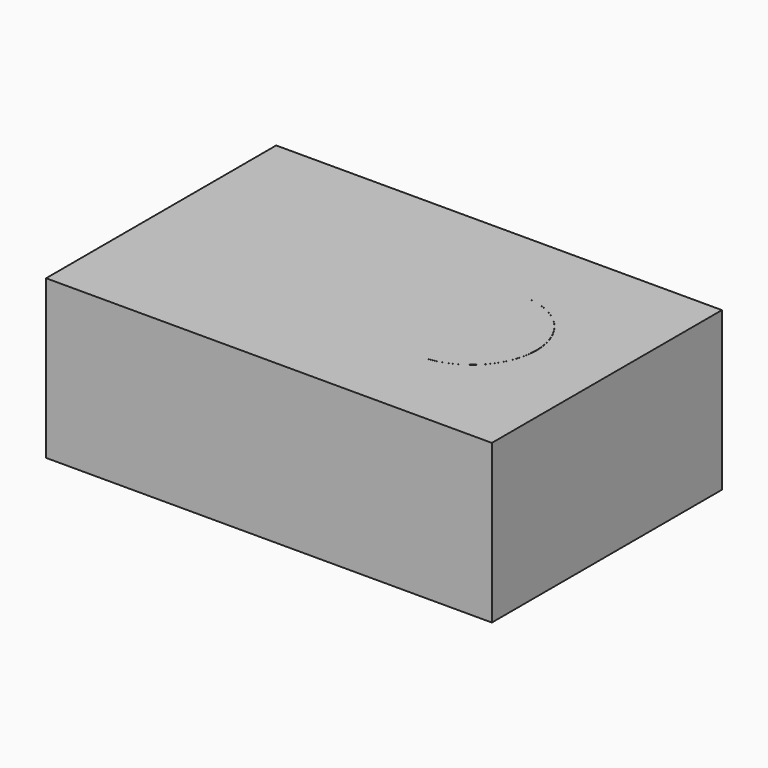
from build123d import *

# Parameters (mm, degrees)
SKETCH001_R  = 0.45
PAD001_DEPTH = 0.1
SKETCH_W     = 3.1
SKETCH_H     = 2
PAD_DEPTH    = 1.1
CIRCLE_R     = 0.45
POCKET_DEPTH = 0.1


with BuildPart() as body001:
    # Sketch001 → Pad001 (new body)
    with BuildSketch(Plane.XY):
        with Locations((0.609, 0)):
            Circle(SKETCH001_R)
    extrude(amount=PAD001_DEPTH)


with BuildPart() as body001_1:
    # Body001 placement: moved
    add(body001.part.moved(Location((0, 0, 1))))


with BuildPart() as fusion:
    # Sketch → Pad (new body)
    with BuildSketch(Plane.XY):
        Rectangle(SKETCH_W, SKETCH_H)
    extrude(amount=PAD_DEPTH)

    # Circle → Pocket (cut)
    with BuildSketch(Plane(origin=(0.61, 0, 1.1), x_dir=(1, 0, 0), z_dir=(0, 0, 1))):
        Circle(CIRCLE_R)
    extrude(amount=-POCKET_DEPTH, mode=Mode.SUBTRACT)

    # Fusion: union Body001
    add(body001_1.part)


solid = fusion.part
